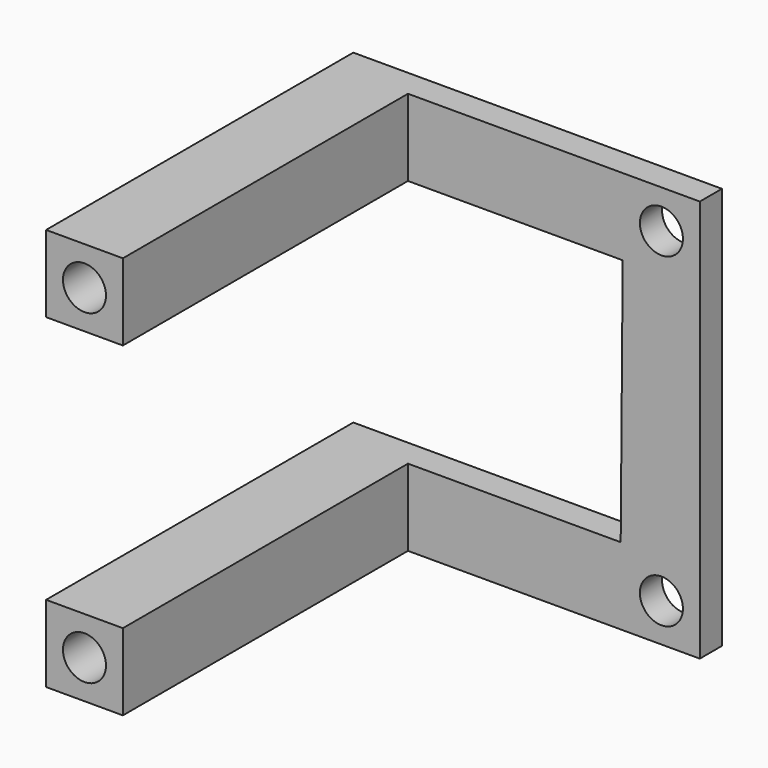
from build123d import *

# Parameters (mm, degrees)
F0_R     = 1.778
F1_DEPTH = 2.286
F2_W     = 6.35
F2_H     = 6.35
F3_DEPTH = 29.464
F4_R     = 1.778
F5_DEPTH = 7.62


with BuildPart() as f1:
    # F0 (on Front) → F1 (new body)
    with BuildSketch(Plane.XZ):
        Polygon((0, 6.35), (0, 0), (23.887912, 0), (30.48, 0), (30.48, 33.274), (0, 33.274), (0, 26.924), (24.104372, 26.924), (23.938964, 6.35), align=None)
        with Locations((27.305, 3.175)):
            Circle(F0_R, mode=Mode.SUBTRACT)
        with Locations((27.305, 30.099)):
            Circle(F0_R, mode=Mode.SUBTRACT)
    extrude(amount=F1_DEPTH)

    # F2 (on face) → F3 (join)
    with BuildSketch(Plane.XZ.offset(2.286)):
        with Locations((3.175, 30.099)):
            Rectangle(F2_W, F2_H)
        with Locations((3.175, 3.175)):
            Rectangle(F2_W, F2_H)
    extrude(amount=F3_DEPTH)

    # F4 (on face) → F5 (cut)
    with BuildSketch(Plane.XZ.offset(31.75)):
        with Locations((3.175, 30.099)):
            Circle(F4_R)
        with Locations((3.175, 3.175)):
            Circle(F4_R)
    extrude(amount=-F5_DEPTH, mode=Mode.SUBTRACT)


solid = f1.part
